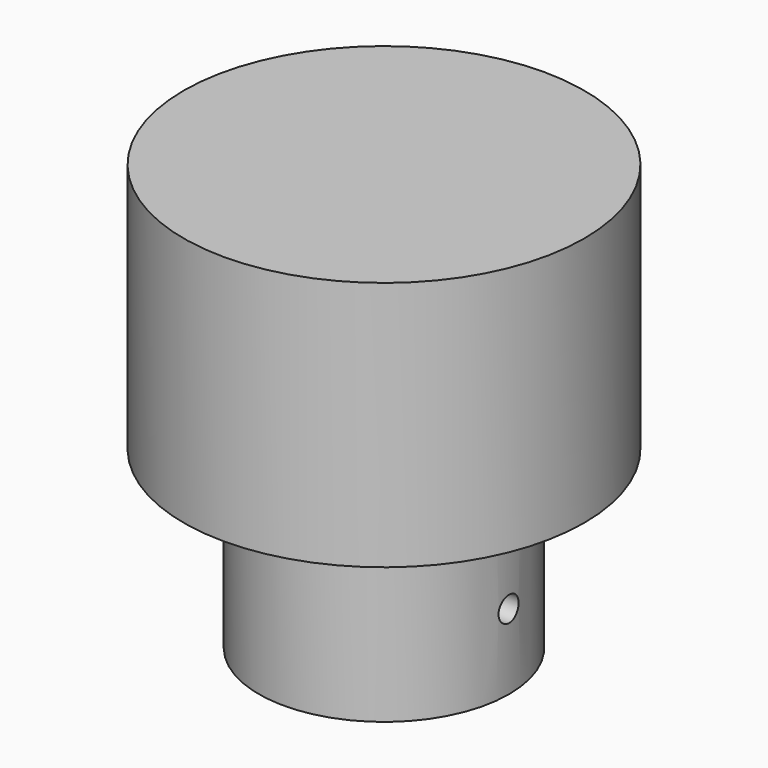
from build123d import *

# Parameters (mm, degrees)
F0_R     = 8
F1_DEPTH = 10
F2_R     = 5
F3_DEPTH = 7
F4_R     = 0.5
F5_DEPTH = 25
F6_R     = 0.5
F7_DEPTH = 25


with BuildPart() as f1:
    # F0 (on Top) → F1 (new body)
    with BuildSketch(Plane.XY):
        Circle(F0_R)
    extrude(amount=F1_DEPTH)

    # F2 (on face) → F3 (join)
    with BuildSketch(Plane(origin=(0, 0, 0), x_dir=(1, 0, 0), z_dir=(0, 0, -1))):
        Circle(F2_R)
    extrude(amount=F3_DEPTH)

    # F4 (on Right) → F5 (cut)
    with BuildSketch(Plane.YZ):
        with Locations((0, -4)):
            Circle(F4_R)
    extrude(amount=-F5_DEPTH, mode=Mode.SUBTRACT)

    # F6 (on face) → F7 (cut)
    with BuildSketch(Plane(origin=(0, 0, 0), x_dir=(0, -1, 0), z_dir=(-1, 0, 0))):
        with Locations((0, -4)):
            Circle(F6_R)
    extrude(amount=-F7_DEPTH, mode=Mode.SUBTRACT)


solid = f1.part
